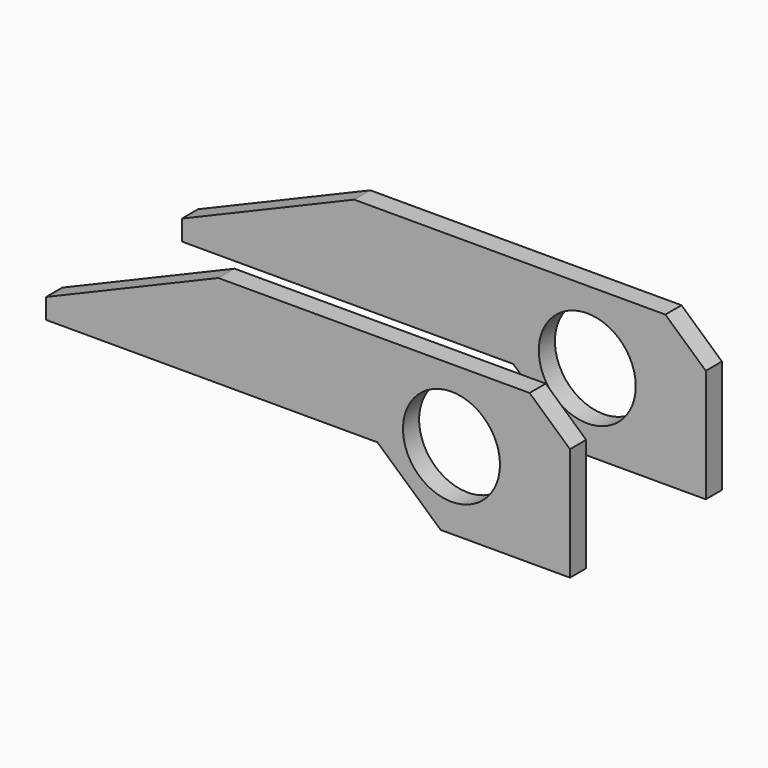
from build123d import *

# Parameters (mm, degrees)
F0_R     = 12
F1_DEPTH = 5


with BuildPart() as f1:
    # F0 (on Front) → F1 (new body)
    with BuildSketch(Plane.XZ):
        Polygon((67.46152, -14), (67.46152, 14), (57.46152, 23), (-19.53848, 23), (-62.190956, 5), (-62.190956, 0), (19.809044, 0), (35.46152, -14), align=None)
        with Locations((38.132965, 5)):
            Circle(F0_R, mode=Mode.SUBTRACT)
    extrude(amount=F1_DEPTH)


with BuildPart() as f3_1:
    # F3: instance of F1
    add(f1.part.mirror(Plane.XZ.offset(23.5)))


solid = Compound([f1.part, f3_1.part])
